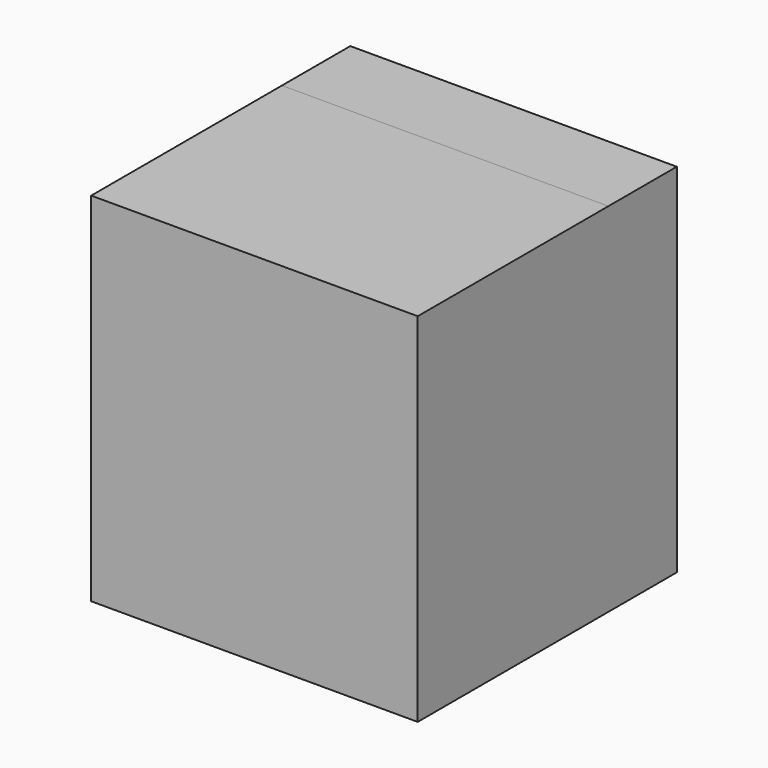
from build123d import *

# Parameters (mm, degrees)
F1_W      = 97.040274
F1_H      = 106.145799
F2_DEPTH  = 25.4
F2_FACE_W = 97.040274
F2_FACE_H = 106.1458
F3_DEPTH  = 70.835305


with BuildPart() as f2:
    # F1 (on face) → F2 (new body)
    with BuildSketch(Plane.XZ):
        with Locations((2.207365, 3.122464)):
            Rectangle(F1_W, F1_H)
    extrude(amount=F2_DEPTH)

    # F2_face (on face) → F3 (join)
    with BuildSketch(Plane(origin=(2.207365, -25.4, 3.122464), x_dir=(1, 0, 0), z_dir=(0, -1, 0))):
        Rectangle(F2_FACE_W, F2_FACE_H)
    extrude(amount=F3_DEPTH)


solid = f2.part
